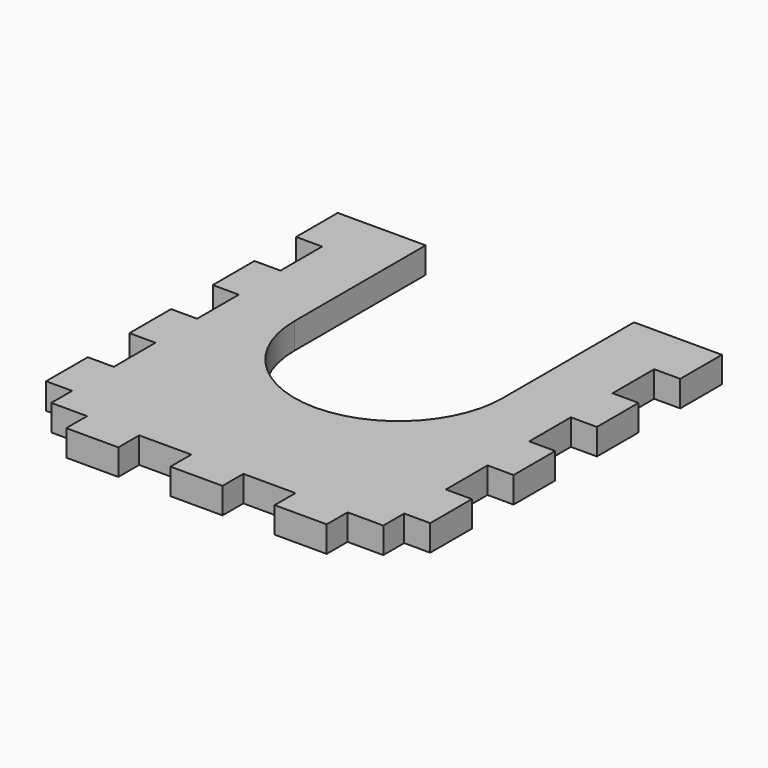
from build123d import *

# Parameters (mm, degrees)
F1_DEPTH = 9.525


with BuildPart() as f1:
    # F0 (on Top) → F1 (new body)
    with BuildSketch(Plane.XY):
        with BuildLine():
            Line((0, 9.525), (0, 0))
            Line((0, 0), (13.096875, 0))
            Line((13.096875, 0), (13.096875, -9.525))
            Line((13.096875, -9.525), (32.146875, -9.525))
            Line((32.146875, -9.525), (32.146875, 0))
            Line((32.146875, 0), (51.196875, 0))
            Line((51.196875, 0), (51.196875, -9.525))
            Line((51.196875, -9.525), (70.246875, -9.525))
            Line((70.246875, -9.525), (70.246875, 0))
            Line((70.246875, 0), (89.296875, 0))
            Line((89.296875, 0), (89.296875, -9.525))
            Line((89.296875, -9.525), (108.346875, -9.525))
            Line((108.346875, -9.525), (108.346875, 0))
            Line((108.346875, 0), (121.44375, 0))
            Line((121.44375, 0), (121.44375, 9.525))
            Line((121.44375, 9.525), (130.96875, 9.525))
            Line((130.96875, 9.525), (130.96875, 28.575))
            Line((130.96875, 28.575), (121.44375, 28.575))
            Line((121.44375, 28.575), (121.44375, 47.625))
            Line((121.44375, 47.625), (130.96875, 47.625))
            Line((130.96875, 47.625), (130.96875, 66.675))
            Line((130.96875, 66.675), (121.44375, 66.675))
            Line((121.44375, 66.675), (121.44375, 85.725))
            Line((121.44375, 85.725), (130.96875, 85.725))
            Line((130.96875, 85.725), (130.96875, 104.775))
            Line((130.96875, 104.775), (121.44375, 104.775))
            Line((121.44375, 104.775), (121.44375, 123.825))
            Line((121.44375, 123.825), (130.96875, 123.825))
            Line((130.96875, 123.825), (130.96875, 142.875))
            Line((130.96875, 142.875), (98.821875, 142.875))
            Line((98.821875, 142.875), (98.821875, 82.909562))
            ThreePointArc((98.821875, 82.909562), (60.721875, 44.809562), (22.621875, 82.909562))
            Line((22.621875, 82.909562), (22.621875, 142.875))
            Line((22.621875, 142.875), (-9.525, 142.875))
            Line((-9.525, 142.875), (-9.525, 123.825))
            Line((-9.525, 123.825), (0, 123.825))
            Line((0, 123.825), (0, 104.775))
            Line((0, 104.775), (-9.525, 104.775))
            Line((-9.525, 104.775), (-9.525, 85.725))
            Line((-9.525, 85.725), (0, 85.725))
            Line((0, 85.725), (0, 66.675))
            Line((0, 66.675), (-9.525, 66.675))
            Line((-9.525, 66.675), (-9.525, 47.625))
            Line((-9.525, 47.625), (0, 47.625))
            Line((0, 47.625), (0, 28.575))
            Line((0, 28.575), (-9.525, 28.575))
            Line((-9.525, 28.575), (-9.525, 9.525))
            Line((-9.525, 9.525), (0, 9.525))
        make_face()
    extrude(amount=F1_DEPTH)


solid = f1.part
